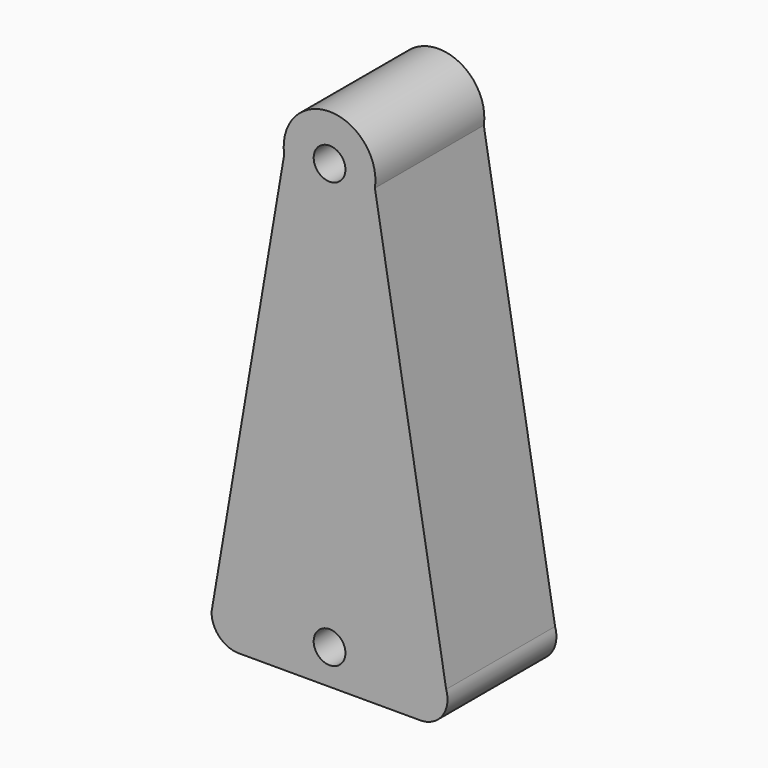
from build123d import *

# Parameters (mm, degrees)
F1_DEPTH = 30
F3_D     = 7
F5_D     = 7
F6_W     = 20.071618259
F6_H     = 16.8062914163
F7_DEPTH = 87


with BuildPart() as f1:
    # F0 (on Front) → F1 (new body)
    with BuildSketch(Plane.XZ):
        with BuildLine():
            ThreePointArc((-5.9981474183, 6.1490890598), (-4.2950281931, 1.8104018307), (0, 0))
            Line((0, 0), (40, 0))
            ThreePointArc((40, 0), (44.8583417204, 2.4791313959), (45.7018609438, 7.8678280909))
            Line((45.7018609438, 7.8678280909), (30, 100))
            Line((30, 100), (20, 100))
            Line((20, 100), (10, 100))
            Line((10, 100), (-5.9981474183, 6.1490890598))
        make_face()
        with BuildLine():
            ThreePointArc((30, 100), (20, 111.6119907276), (10, 100))
            Line((10, 100), (20, 100))
            Line((20, 100), (30, 100))
        make_face()
    extrude(amount=F1_DEPTH)

    # F3 (through all)
    with Locations(Plane.XZ.offset(30)):
        with Locations((20, 7.6905470341)):
            Hole(F3_D / 2)

    # F5 (through all)
    with Locations(Plane.XZ.offset(30)):
        with Locations((20, 101.5001014674)):
            Hole(F5_D / 2)

    # F6 (on face) → F7 (cut)
    with BuildSketch(Plane(origin=(0, 0, 0), x_dir=(1, 0, 0), z_dir=(0, 0, -1))):
        with Locations((20.9973212332, 14.0443919227)):
            Rectangle(F6_W, F6_H)
    extrude(amount=-F7_DEPTH, mode=Mode.SUBTRACT)


solid = f1.part
